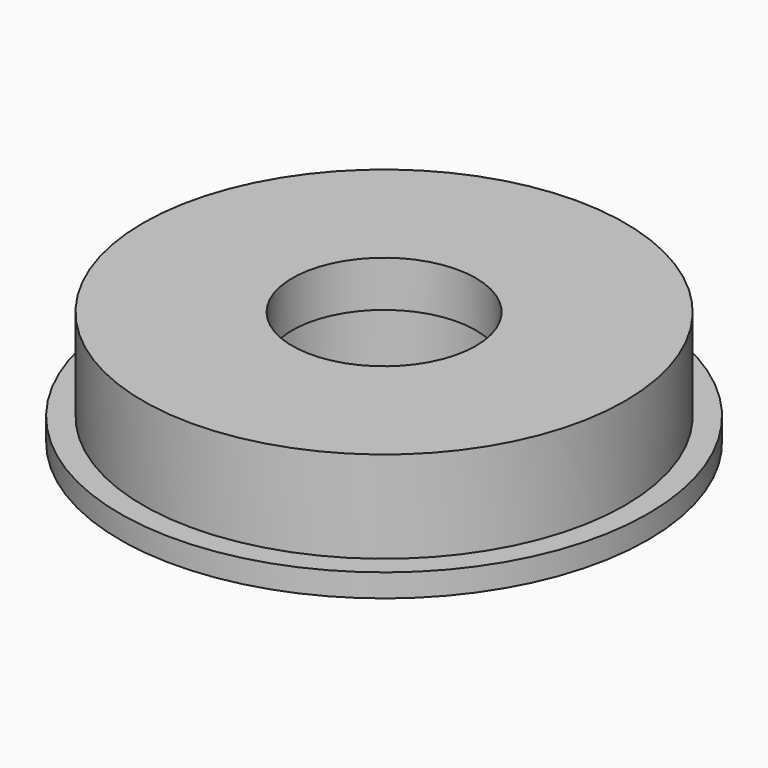
from build123d import *

# Parameters (mm, degrees)
F0_R     = 29.21
F1_DEPTH = 2.54
F2_R     = 26.67
F3_DEPTH = 12.7
F4_R     = 10.16
F5_DEPTH = 12.701
F6_R     = 11.43
F7_DEPTH = 7.62


with BuildPart() as f1:
    # F0 (on Top) → F1 (new body)
    with BuildSketch(Plane.XY):
        Circle(F0_R)
    extrude(amount=F1_DEPTH)

    # F2 (on Top) → F3 (join)
    with BuildSketch(Plane.XY):
        Circle(F2_R)
    extrude(amount=F3_DEPTH)

    # F4 (on Top) → F5 (cut, through all)
    with BuildSketch(Plane.XY):
        Circle(F4_R)
    extrude(amount=F5_DEPTH, mode=Mode.SUBTRACT)

    # F6 (on Top) → F7 (cut)
    with BuildSketch(Plane.XY):
        Circle(F6_R)
    extrude(amount=F7_DEPTH, mode=Mode.SUBTRACT)


solid = f1.part
